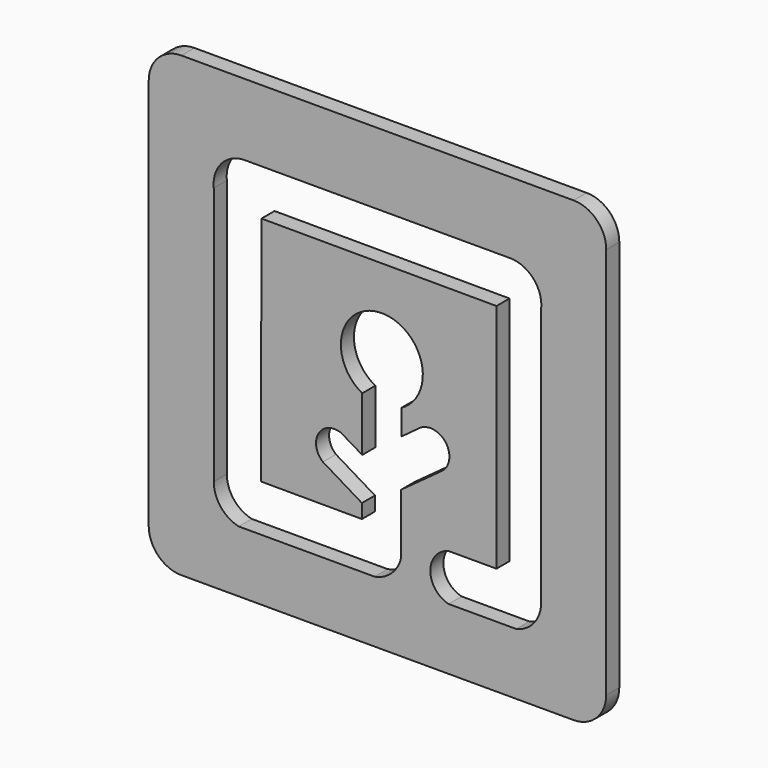
from build123d import *

# Parameters (mm, degrees)
F2_DEPTH = 3.175
F3_DEPTH = 3.176


with BuildPart() as f2:
    # F1 (on Front) → F2 (new body)
    with BuildSketch(Plane.XZ):
        with BuildLine():
            Line((38.1, 38.1), (-38.1, 38.1))
            ThreePointArc((-38.1, 38.1), (-42.590128, 36.240128), (-44.45, 31.75))
            Line((-44.45, 31.75), (-44.45, -44.45))
            ThreePointArc((-44.45, -44.45), (-42.590128, -48.940128), (-38.1, -50.8))
            Line((-38.1, -50.8), (38.1, -50.8))
            ThreePointArc((38.1, -50.8), (42.590128, -48.940128), (44.45, -44.45))
            Line((44.45, -44.45), (44.45, 31.75))
            ThreePointArc((44.45, 31.75), (42.590128, 36.240128), (38.1, 38.1))
        make_face()
    extrude(amount=F2_DEPTH)

    # F0 (on Front) → F3 (cut, through all)
    with BuildSketch(Plane.XZ):
        with BuildLine():
            Line((-22.538607, 15.268815), (23.124066, 15.156061))
            Line((23.124066, 15.156061), (23.124066, -29.782966))
            Line((23.124066, -29.782966), (13.812213, -29.782966))
            ThreePointArc((13.812213, -29.782966), (10.269443, -34.311891), (13.812213, -38.840815))
            Line((13.812213, -38.840815), (26.961373, -38.840815))
            ThreePointArc((26.961373, -38.840815), (30.450503, -36.651138), (31.81174, -32.763241))
            Line((31.81174, -32.763241), (31.81174, 17.476443))
            ThreePointArc((31.81174, 17.476443), (30.284546, 22.190436), (25.758319, 24.207195))
            Line((25.758319, 24.207195), (0, 24.207195))
            Line((0, 24.207195), (-25.758319, 24.207195))
            ThreePointArc((-25.758319, 24.207195), (-30.284546, 22.190436), (-31.81174, 17.476443))
            Line((-31.81174, 17.476443), (-31.81174, -32.763241))
            ThreePointArc((-31.81174, -32.763241), (-30.450503, -36.651138), (-26.961373, -38.840815))
            Line((-26.961373, -38.840815), (-0.556357, -38.840815))
            ThreePointArc((-0.556357, -38.840815), (2.745453, -37.168948), (4.597786, -33.964895))
            Line((4.597786, -33.964895), (4.597786, -22.288704))
            Line((4.597786, -22.288704), (12.745019, -16.33173))
            ThreePointArc((12.745019, -16.33173), (13.216553, -11.336866), (8.26837, -10.508317))
            Line((8.26837, -10.508317), (4.661147, -13.173634))
            Line((4.661147, -13.173634), (4.661147, -8.256041))
            ThreePointArc((4.661147, -8.256041), (0.851147, 6.698015), (-2.958853, -8.256041))
            Line((-2.958853, -8.256041), (-2.958853, -18.803532))
            Line((-2.958853, -18.803532), (-7.070459, -16.356114))
            ThreePointArc((-7.070459, -16.356114), (-11.460178, -17.905431), (-10.600027, -22.48038))
            Line((-10.600027, -22.48038), (-3.022214, -27.047629))
            Line((-3.022214, -27.047629), (-3.022214, -29.794648))
            Line((-3.022214, -29.794648), (-22.649761, -29.746183))
            Line((-22.649761, -29.746183), (-22.538607, 15.268815))
        make_face()
    extrude(amount=F3_DEPTH, mode=Mode.SUBTRACT)


solid = f2.part
